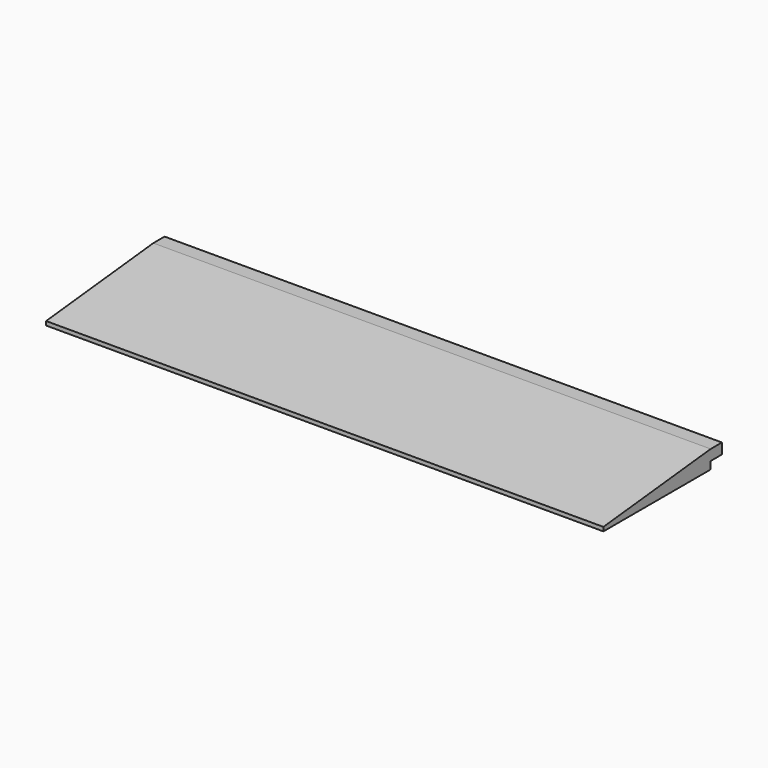
from build123d import *

# Parameters (mm, degrees)
F1_DEPTH = 250.825


with BuildPart() as f1:
    # F0 (on Right) → F1 (new body, symmetric)
    with BuildSketch(Plane.YZ):
        Polygon((-66.675, 3.5814), (-66.675, 0), (53.975, 0), (53.975, 6.7564), (66.675, 6.7564), (66.675, 16.2814), (53.975, 16.2814), align=None)
    extrude(amount=F1_DEPTH, both=True)


solid = f1.part
